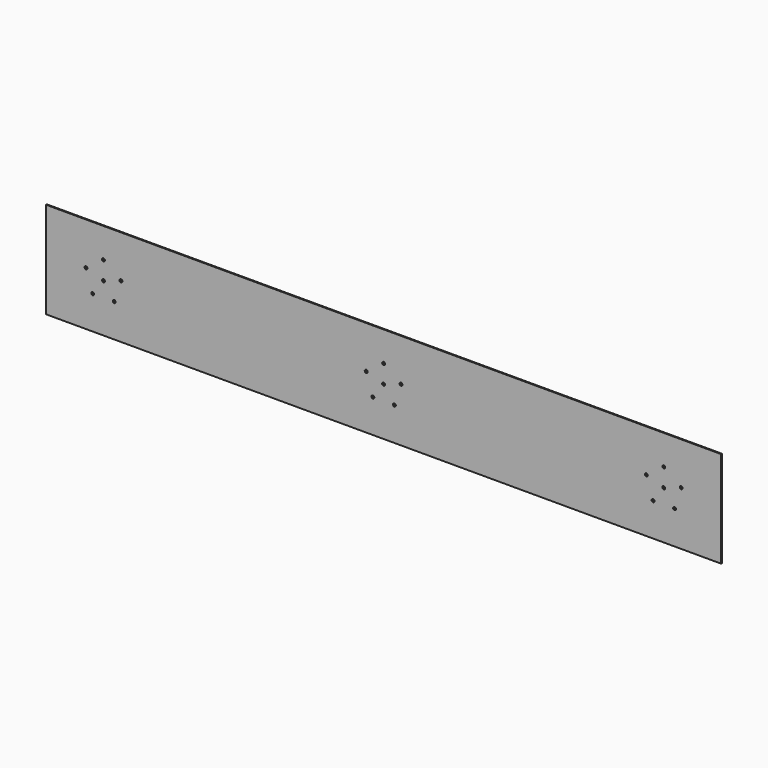
from build123d import *

# Parameters (mm, degrees)
F0_W     = 1400
F0_H     = 200
F1_DEPTH = 2
F2_R     = 3
F3_DEPTH = 2.001


with BuildPart() as f1:
    # F0 (on Front) → F1 (new body)
    with BuildSketch(Plane.XZ):
        with Locations((700, 100)):
            Rectangle(F0_W, F0_H)
    extrude(amount=F1_DEPTH)

    # F2 (on face) → F3 (cut, through all)
    with BuildSketch(Plane.XZ.offset(2)):
        with Locations((700, 100)):
            Circle(F2_R)
        with Locations((700, 138)):
            Circle(F2_R)
        with Locations((663.859852, 111.742646)):
            Circle(F2_R)
        with Locations((677.66416, 69.257354)):
            Circle(F2_R)
        with Locations((722.33584, 69.257354)):
            Circle(F2_R)
        with Locations((736.140148, 111.742646)):
            Circle(F2_R)
        with Locations((119, 138)):
            Circle(F2_R)
        with Locations((82.859852, 111.742646)):
            Circle(F2_R)
        with Locations((96.66416, 69.257354)):
            Circle(F2_R)
        with Locations((155.140148, 111.742646)):
            Circle(F2_R)
        with Locations((119, 100)):
            Circle(F2_R)
        with Locations((141.33584, 69.257354)):
            Circle(F2_R)
        with Locations((1317.140148, 111.742646)):
            Circle(F2_R)
        with Locations((1303.33584, 69.257354)):
            Circle(F2_R)
        with Locations((1258.66416, 69.257354)):
            Circle(F2_R)
        with Locations((1244.859852, 111.742646)):
            Circle(F2_R)
        with Locations((1281, 100)):
            Circle(F2_R)
        with Locations((1281, 138)):
            Circle(F2_R)
    extrude(amount=-F3_DEPTH, mode=Mode.SUBTRACT)


solid = f1.part
